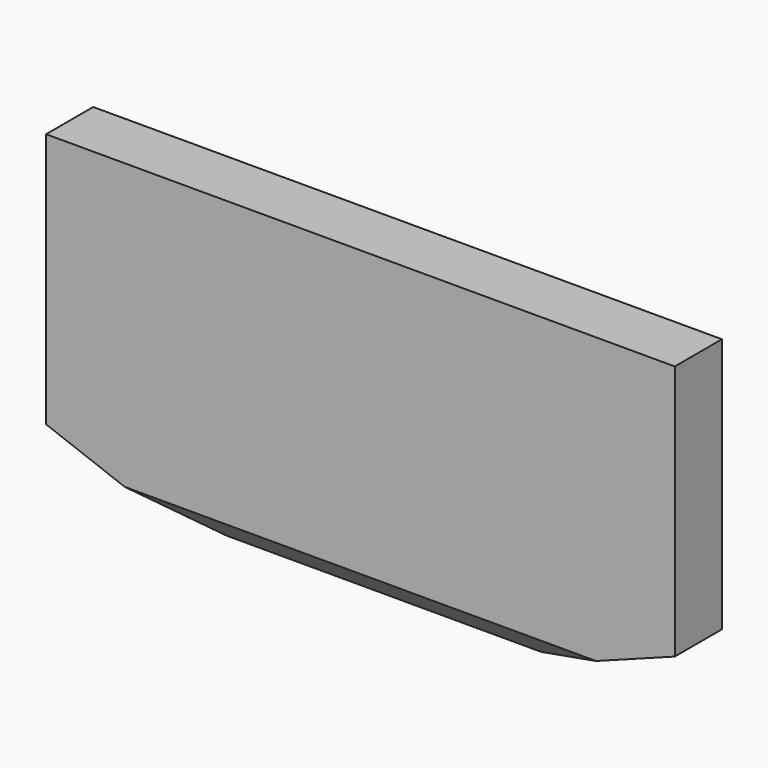
from build123d import *

# Parameters (mm, degrees)
PAD_DEPTH    = 1.5
CHAMFER_SIZE = 0.749


with BuildPart() as part:
    # Sketch → Pad (new body)
    with BuildSketch(Plane.XZ):
        Polygon((-8, 4), (-8, -2.5), (-4, -4), (4, -4), (8, -2.5), (8, 4), align=None)
    extrude(amount=PAD_DEPTH)

    # Chamfer
    chamfer_edges = [part.edges().sort_by_distance(p)[0] for p in [
        (0, -1.5, -4),
        (0, 0, -4),
    ]]
    chamfer(chamfer_edges, length=CHAMFER_SIZE)


solid = part.part
